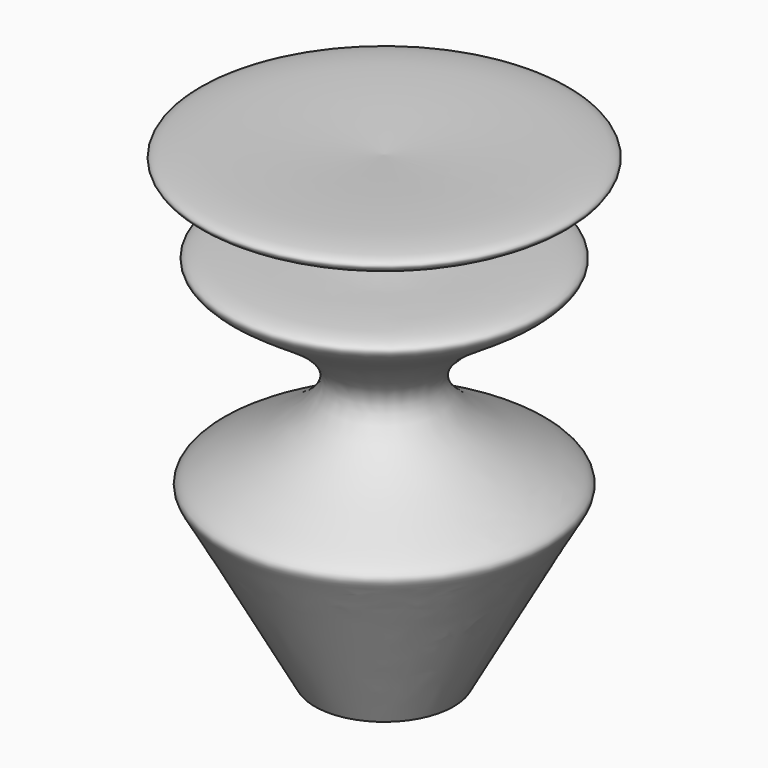
from build123d import *


with BuildPart() as f1:
    # F0 (on Front) → F1 (revolve)
    with BuildSketch(Plane.XZ):
        with BuildLine():
            add(Edge.make_bspline(
                [(16.8418195099, -57.0030882955), (26.0995056314, -40.1188123044), (38.0651124202, -18.2957989974), (42.0287228627, -12.2953279191), (-13.2161810835, 8.1910789958), (65.5821126685, 39.9030678679), (-20.8939315618, 31.769868191), (72.7571548081, 59.2796784642), (24.719584675, 56.6360883358), (0, 55.2757270634)],
                knots=[0, 0, 0, 0, 0.1727018672, 0.223218049, 0.374691443, 0.5285484914, 0.6693900198, 0.829871882, 1, 1, 1, 1], degree=3))
            Line((0, 55.2757270634), (0, -57.0030882955))
            Line((0, -57.0030882955), (16.8418195099, -57.0030882955))
        make_face()
    revolve(axis=Axis((0, 0, -0.863680616), (0, 0, -1)))


solid = f1.part
